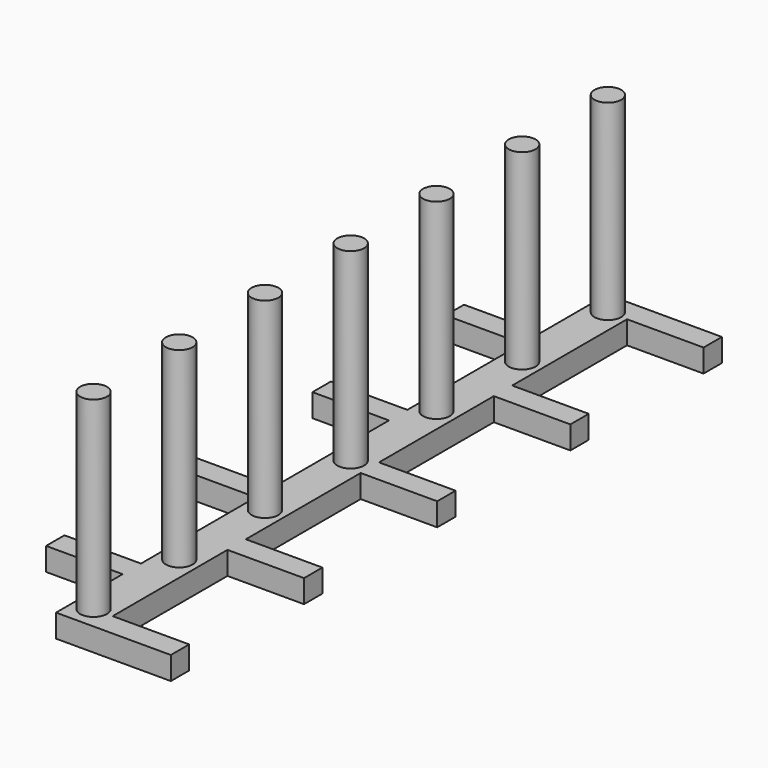
from build123d import *

# Parameters (mm, degrees)
F0_W     = 12.7
F0_H     = 3.81
F1_DEPTH = 3.81
F2_R     = 2.2225
F3_DEPTH = 31.75


with BuildPart() as f1:
    # F0 (on Top) → F1 (new body)
    with BuildSketch(Plane.XY):
        Polygon((3.175, 57.15), (-3.175, 57.15), (-3.175, 43.33875), (-3.175, 39.52875), (-3.175, 15.71625), (-3.175, 11.90625), (-3.175, -11.90625), (-3.175, -15.71625), (-3.175, -39.52875), (-3.175, -43.33875), (-3.175, -57.15), (3.175, -57.15), (3.175, -53.34), (3.175, -29.5275), (3.175, -25.7175), (3.175, -1.905), (3.175, 1.905), (3.175, 25.7175), (3.175, 29.5275), (3.175, 53.34), align=None)
        with Locations((-9.525, -41.43375)):
            Rectangle(F0_W, F0_H)
        with Locations((9.525, 0)):
            Rectangle(F0_W, F0_H)
        with Locations((9.525, 55.245)):
            Rectangle(F0_W, F0_H)
        with Locations((-9.525, -13.81125)):
            Rectangle(F0_W, F0_H)
        with Locations((9.525, 27.6225)):
            Rectangle(F0_W, F0_H)
        with Locations((9.525, -55.245)):
            Rectangle(F0_W, F0_H)
        with Locations((-9.525, 13.81125)):
            Rectangle(F0_W, F0_H)
        with Locations((9.525, -27.6225)):
            Rectangle(F0_W, F0_H)
        with Locations((-9.525, 41.43375)):
            Rectangle(F0_W, F0_H)
    extrude(amount=F1_DEPTH)

    # F2 (on face) → F3 (join)
    with BuildSketch(Plane.XY.offset(3.81)):
        Circle(F2_R)
        with Locations((0, 17.78)):
            Circle(F2_R)
        with Locations((0, 35.56)):
            Circle(F2_R)
        with Locations((0, 53.34)):
            Circle(F2_R)
        with Locations((0, -17.78)):
            Circle(F2_R)
        with Locations((0, -35.56)):
            Circle(F2_R)
        with Locations((0, -53.34)):
            Circle(F2_R)
    extrude(amount=F3_DEPTH)


solid = f1.part
